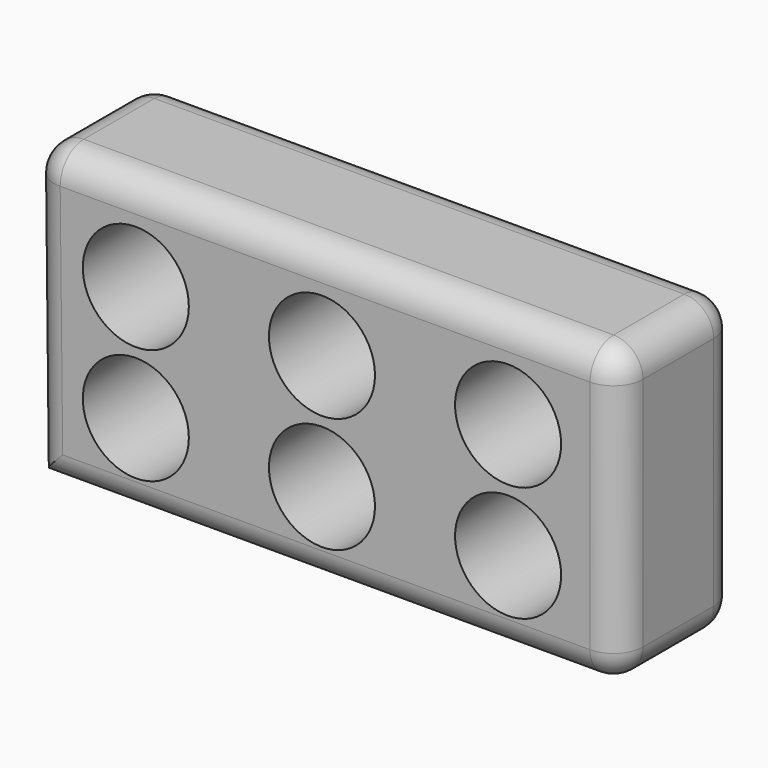
from build123d import *

# Parameters (mm, degrees)
F1_DEPTH = 25
F2_R     = 5
F3_R     = 9
F4_DEPTH = 25.001


with BuildPart() as f1:
    # F0 (on Front) → F1 (new body)
    with BuildSketch(Plane.XZ):
        Polygon((46.278606, 27.882919), (-53.721394, 27.882919), (-53.185202, -22.117081), (46.278606, -22.117081), align=None)
    extrude(amount=F1_DEPTH)

    # F2
    f2_edges = [f1.edges().sort_by_distance(p)[0] for p in [
        (-3.453298, 0, -22.117081),
        (-3.453298, -25, -22.117081),
        (46.278606, -25, 2.882919),
        (-3.721394, -25, 27.882919),
        (-53.453298, -25, 2.882919),
        (46.278606, -12.5, 27.882919),
        (-53.721394, -12.5, 27.882919),
        (-3.721394, 0, 27.882919),
        (46.278606, 0, 2.882919),
        (-53.453298, 0, 2.882919),
        (46.278606, -12.5, -22.117081),
    ]]
    fillet(f2_edges, radius=F2_R)

    # F3 (on Front) → F4 (cut, through all)
    with BuildSketch(Plane.XZ):
        with Locations((-35.826672, 12.018532)):
            Circle(F3_R)
        with Locations((-35.826672, -7.581468)):
            Circle(F3_R)
        with Locations((-4.226672, 12.018532)):
            Circle(F3_R)
        with Locations((-4.226672, -7.581468)):
            Circle(F3_R)
        with Locations((27.373328, 12.018532)):
            Circle(F3_R)
        with Locations((27.373328, -7.581468)):
            Circle(F3_R)
    extrude(amount=F4_DEPTH, mode=Mode.SUBTRACT)


solid = f1.part
